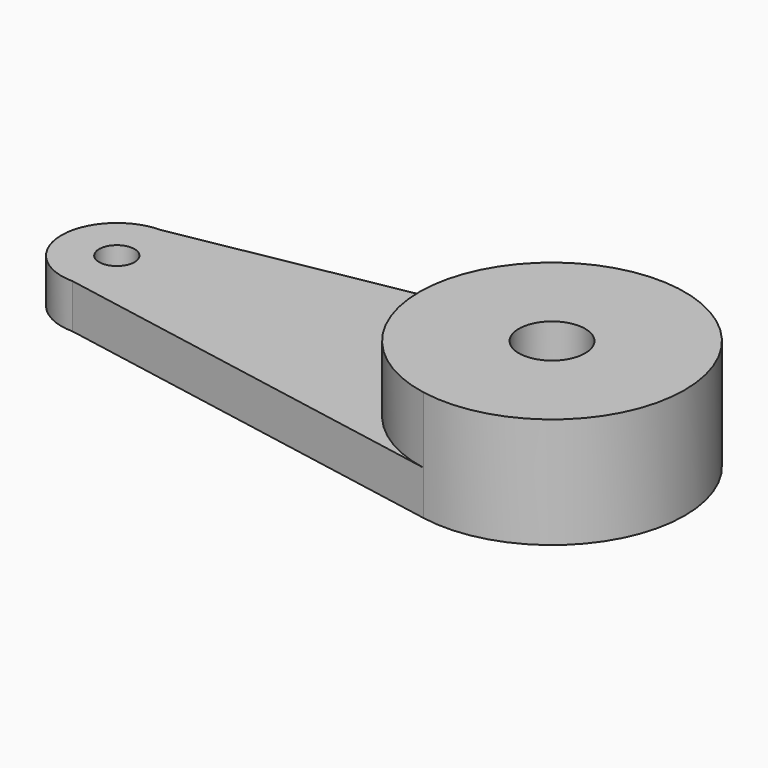
from build123d import *

# Parameters (mm, degrees)
F0_R     = 1.5
F1_DEPTH = 5
F0_R_2   = 0.8
F2_DEPTH = 2
F3_R     = 3
F3_R_2   = 2
F4_DEPTH = 0.2


with BuildPart() as f1:
    # F0 (on Top) → F1 (new body)
    with BuildSketch(Plane.XY):
        with BuildLine():
            ThreePointArc((-1.0798815668, -5.9020213319), (3.8419207826, -4.6086489018), (6, 0))
            ThreePointArc((6, 0), (3.8419207985, 4.6086488886), (-1.0798815261, 5.9020213393))
            ThreePointArc((-1.0798815261, 5.9020213393), (-6, 2.07e-08), (-1.0798815668, -5.9020213319))
        make_face()
        Circle(F0_R, mode=Mode.SUBTRACT)
    extrude(amount=F1_DEPTH)

    # F0 (on Top) → F2 (join)
    with BuildSketch(Plane.XY):
        with BuildLine():
            ThreePointArc((-1.0798815668, -5.9020213319), (-6, 2.07e-08), (-1.0798815261, 5.9020213393))
            Line((-1.0798815261, 5.9020213393), (-19.6734044441, 2.5))
            ThreePointArc((-19.6734044441, 2.5), (-17.9056374912, 1.767766953), (-17.1734044441, 0))
            ThreePointArc((-17.1734044441, 0), (-17.9056374912, -1.767766953), (-19.6734044441, -2.5))
            Line((-19.6734044441, -2.5), (-1.0798815668, -5.9020213319))
        make_face()
        with BuildLine():
            ThreePointArc((-17.1734044441, 0), (-17.9056374912, 1.767766953), (-19.6734044441, 2.5))
            ThreePointArc((-19.6734044441, 2.5), (-22.1734044441, 0), (-19.6734044441, -2.5))
            ThreePointArc((-19.6734044441, -2.5), (-17.9056374912, -1.767766953), (-17.1734044441, 0))
        make_face()
        with Locations((-19.6734044441, 0)):
            Circle(F0_R_2, mode=Mode.SUBTRACT)
    extrude(amount=F2_DEPTH)

    # F3 (on face) → F4 (cut)
    with BuildSketch(Plane(origin=(0, 0, 0), x_dir=(1, 0, 0), z_dir=(0, 0, -1))):
        Circle(F3_R)
        Circle(F3_R_2, mode=Mode.SUBTRACT)
    extrude(amount=-F4_DEPTH, mode=Mode.SUBTRACT)


solid = f1.part
